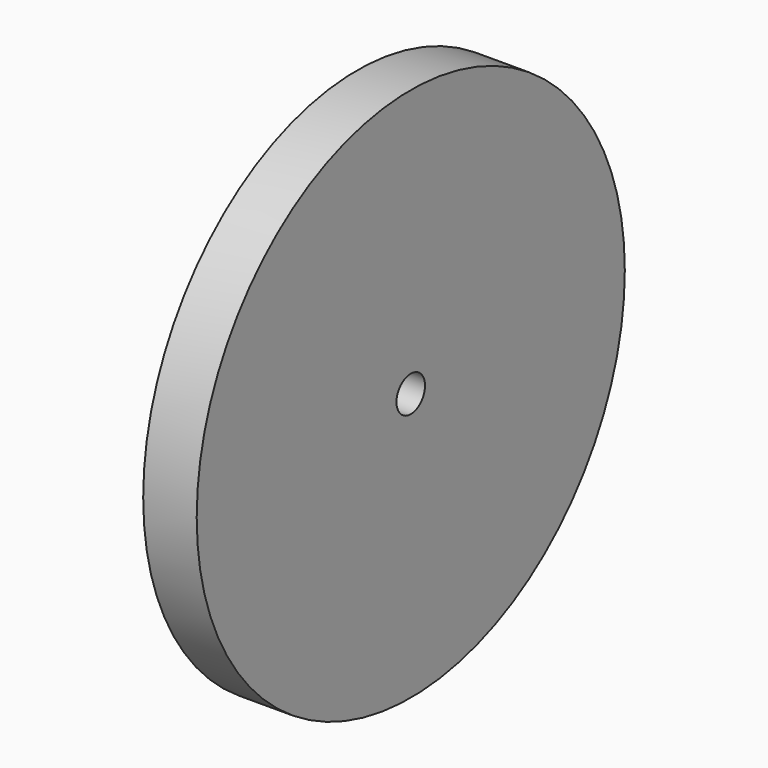
from build123d import *

# Parameters (mm, degrees)
F0_R     = 30
F0_R_2   = 2
F1_DEPTH = 6
F2_R     = 12.5
F2_R_2   = 2
F3_DEPTH = 10


with BuildPart() as f1:
    # F0 (on Right) → F1 (new body)
    with BuildSketch(Plane.YZ):
        Circle(F0_R)
        Circle(F0_R_2, mode=Mode.SUBTRACT)
    extrude(amount=F1_DEPTH)

    # F2 (on Right) → F3 (join)
    with BuildSketch(Plane.YZ):
        Circle(F2_R)
        Circle(F2_R_2, mode=Mode.SUBTRACT)
    extrude(amount=-F3_DEPTH)


solid = f1.part
